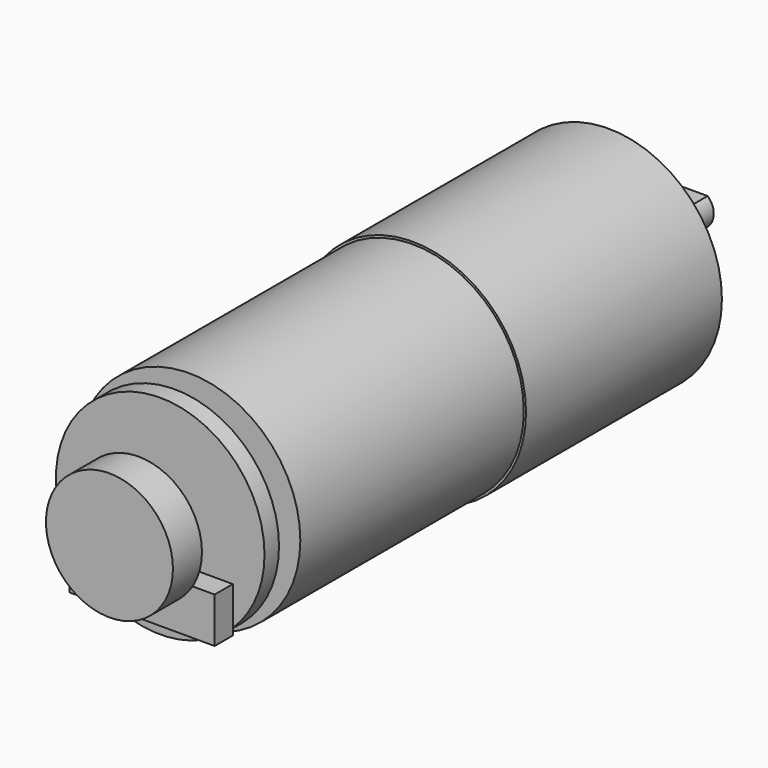
from build123d import *

# Parameters (mm, degrees)
F0_R      = 12.5
F1_DEPTH  = 27
F2_R      = 12.25
F3_DEPTH  = 30.8
F4_R      = 3.5
F5_DEPTH  = 2.5
F6_R      = 2
F7_DEPTH  = 9.5
F9_DEPTH  = 8
F10_R     = 1.5
F11_DEPTH = 6
F12_R     = 4
F13_DEPTH = 2
F14_R     = 11.5
F15_DEPTH = 2
F16_R     = 1
F17_DEPTH = 3
F18_R     = 7
F19_DEPTH = 4
F20_W     = 16
F20_H     = 5
F21_DEPTH = 2.5


with BuildPart() as f1:
    # F0 (on Front) → F1 (new body)
    with BuildSketch(Plane.XZ):
        Circle(F0_R)
    extrude(amount=F1_DEPTH)

    # F2 (on face) → F3 (join)
    with BuildSketch(Plane.XZ.offset(27)):
        Circle(F2_R)
    extrude(amount=F3_DEPTH)

    # F4 (on face) → F5 (join)
    with BuildSketch(Plane(origin=(0, 0, 0), x_dir=(-1, 0, 0), z_dir=(0, 1, 0))):
        Circle(F4_R)
    extrude(amount=F5_DEPTH)

    # F6 (on face) → F7 (join)
    with BuildSketch(Plane(origin=(0, 2.5, 0), x_dir=(-1, 0, 0), z_dir=(0, 1, 0))):
        Circle(F6_R)
    extrude(amount=F7_DEPTH)

    # F8 (on face) → F9 (cut)
    with BuildSketch(Plane(origin=(0, 12, 0), x_dir=(-1, 0, 0), z_dir=(0, 1, 0))):
        with BuildLine():
            ThreePointArc((1.322876, 1.5), (0, 2), (-1.322876, 1.5))
            Line((-1.322876, 1.5), (1.322876, 1.5))
        make_face()
    extrude(amount=-F9_DEPTH, mode=Mode.SUBTRACT)

    # F10 (on face) → F11 (cut)
    with BuildSketch(Plane(origin=(0, 0, 0), x_dir=(-1, 0, 0), z_dir=(0, 1, 0))):
        with Locations((8.5, 0)):
            Circle(F10_R)
        with Locations((-8.5, 0)):
            Circle(F10_R)
    extrude(amount=-F11_DEPTH, mode=Mode.SUBTRACT)

    # F12 (on face) → F13 (join)
    with BuildSketch(Plane.XZ.offset(57.8)):
        Circle(F12_R)
    extrude(amount=F13_DEPTH)

    # F14 (on face) → F15 (join)
    with BuildSketch(Plane.XZ.offset(59.8)):
        Circle(F14_R)
    extrude(amount=F15_DEPTH)

    # F16 (on face) → F17 (join)
    with BuildSketch(Plane.XZ.offset(61.8)):
        Circle(F16_R)
    extrude(amount=F17_DEPTH)

    # F18 (on face) → F19 (join)
    with BuildSketch(Plane.XZ.offset(64.8)):
        Circle(F18_R)
    extrude(amount=F19_DEPTH)

    # F20 (on face) → F21 (join)
    with BuildSketch(Plane.XZ.offset(61.8)):
        with Locations((0, -6.5)):
            Rectangle(F20_W, F20_H)
    extrude(amount=F21_DEPTH)


solid = f1.part
